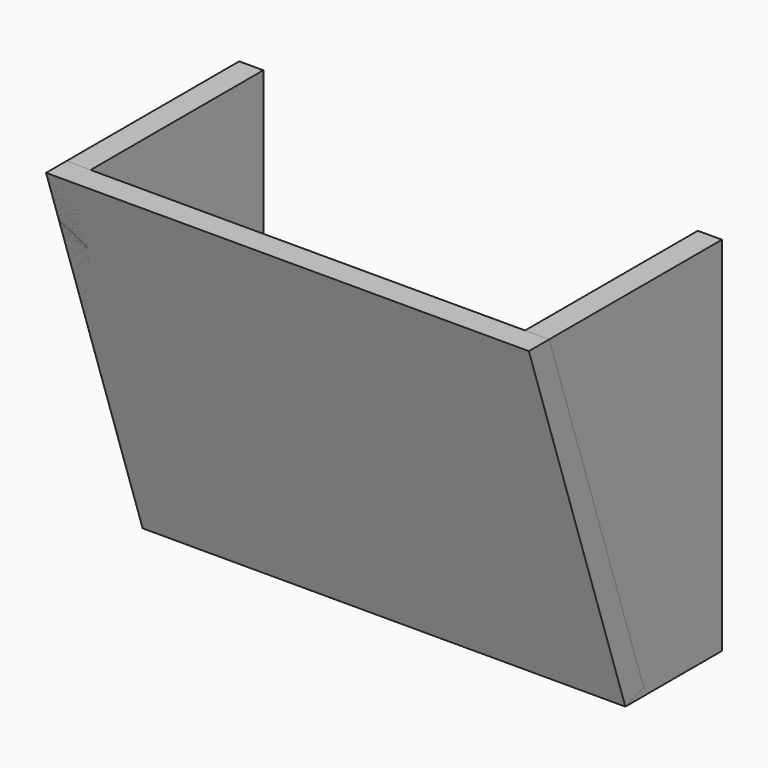
from build123d import *

# Parameters (mm, degrees)
F1_W      = 25.4
F1_H      = 381
F2_DEPTH  = 254
F4_DEPTH  = 635
F5_W      = 508
F5_H      = 401.6092628414
F6_DEPTH  = 25.4
F9_DEPTH  = 457.2
F10_DEPTH = 508.001


with BuildPart() as f2:
    # F1 (on face) → F2 (new body)
    with BuildSketch(Plane.XZ):
        with Locations((-241.3, 0)):
            Rectangle(F1_W, F1_H)
    extrude(amount=F2_DEPTH)


with BuildPart() as f2b:
    # F1 (on face) → F2, piece 2 (new body)
    with BuildSketch(Plane.XZ):
        with Locations((241.3, 0)):
            Rectangle(F1_W, F1_H)
    extrude(amount=F2_DEPTH)


with BuildPart() as f4_tool:
    # F3 (on face) → F4 (new body)
    with BuildSketch(Plane(origin=(-254, 0, 0), x_dir=(0, -1, 0), z_dir=(-1, 0, 0))):
        Polygon((127, -190.5), (254, -190.5), (254, 190.5), align=None)
    extrude(amount=-F4_DEPTH)


with BuildPart() as f2_1:
    add(f2.part)

    # F4: cut by f4_tool
    add(f4_tool.part, mode=Mode.SUBTRACT)


with BuildPart() as f2b_1:
    add(f2b.part)

    # F4: cut by f4_tool
    add(f4_tool.part, mode=Mode.SUBTRACT)


with BuildPart() as f6:
    # F5 (on face) → F6 (new body)
    with BuildSketch(Plane(origin=(0, -171.45, -57.15), x_dir=(1, 0, 0), z_dir=(0, -0.9486832981, -0.316227766))):
        with Locations((0, 60.2413894262)):
            Rectangle(F5_W, F5_H)
    extrude(amount=-F6_DEPTH)

    # F7 (on face) → F10 (cut, through all)
    with BuildSketch(Plane.YZ.offset(254)):
        Polygon((-227.2260491439, 190.5), (-229.9034442295, 198.5321852568), (-254, 190.5), align=None)
    extrude(amount=-F10_DEPTH, mode=Mode.SUBTRACT)


with BuildPart() as f9:
    # F8 (on face) → F9 (new body, through all)
    with BuildSketch(Plane(origin=(228.6, 0, 0), x_dir=(0, -1, 0), z_dir=(-1, 0, 0))):
        Polygon((0, -190.5), (127, -190.5), (102.9034442295, -182.4678147432), (108.6927158106, -165.1), (0, -165.1), align=None)
    extrude(amount=F9_DEPTH)


solid = Compound([f2_1.part, f2b_1.part, f6.part, f9.part])
